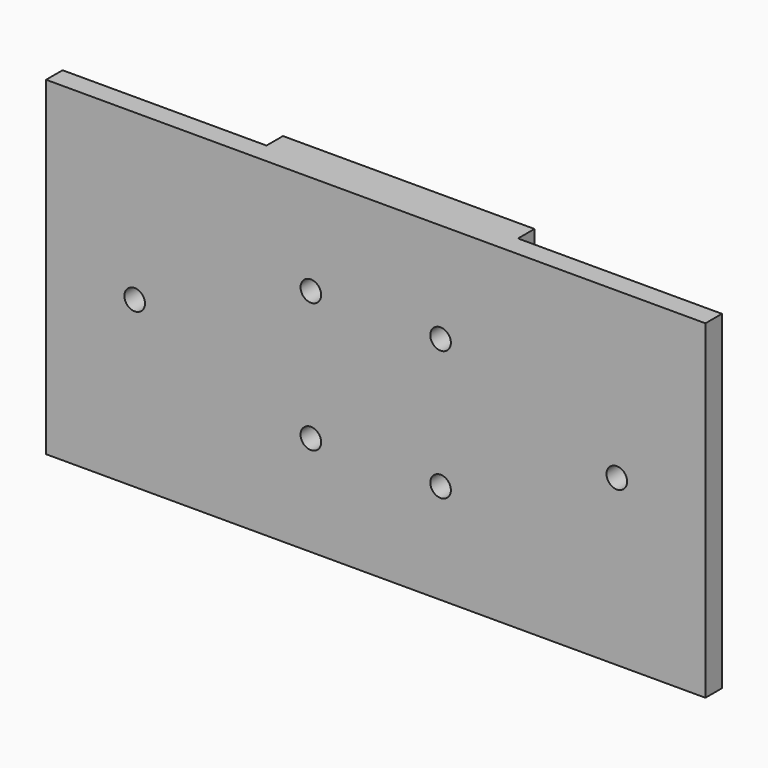
from build123d import *

# Parameters (mm, degrees)
F0_R     = 3.175
F1_DEPTH = 12.7
F2_W     = 62.84501
F2_H     = 6.35
F3_DEPTH = 101.601
F4_DEPTH = 101.601


with BuildPart() as f1:
    # F0 (on Front) → F1 (new body)
    with BuildSketch(Plane.XZ):
        with BuildLine():
            Line((0, 50.8), (-101.6, 50.8))
            Line((-101.6, 50.8), (-101.6, 0))
            Line((-101.6, 0), (-77.47, 0))
            ThreePointArc((-77.47, 0), (-74.295, 3.175), (-71.12, 0))
            Line((-71.12, 0), (0, 0))
            Line((0, 0), (0, 50.8))
        make_face()
        with Locations((-19.99996, 19.99996)):
            Circle(F0_R, mode=Mode.SUBTRACT)
        with BuildLine():
            Line((101.6, 50.8), (0, 50.8))
            Line((0, 50.8), (0, 0))
            Line((0, 0), (71.12, 0))
            ThreePointArc((71.12, 0), (74.295, 3.175), (77.47, 0))
            Line((77.47, 0), (101.6, 0))
            Line((101.6, 0), (101.6, 50.8))
        make_face()
        with Locations((19.97964, 19.99996)):
            Circle(F0_R, mode=Mode.SUBTRACT)
        with BuildLine():
            Line((-77.47, 0), (-101.6, 0))
            Line((-101.6, 0), (-101.6, -50.8))
            Line((-101.6, -50.8), (0, -50.8))
            Line((0, -50.8), (0, 0))
            Line((0, 0), (-71.12, 0))
            ThreePointArc((-71.12, 0), (-74.295, -3.175), (-77.47, 0))
        make_face()
        with Locations((-19.99996, -19.97964)):
            Circle(F0_R, mode=Mode.SUBTRACT)
        with BuildLine():
            Line((71.12, 0), (0, 0))
            Line((0, 0), (0, -50.8))
            Line((0, -50.8), (101.6, -50.8))
            Line((101.6, -50.8), (101.6, 0))
            Line((101.6, 0), (77.47, 0))
            ThreePointArc((77.47, 0), (74.295, -3.175), (71.12, 0))
        make_face()
        with Locations((19.97964, -19.97964)):
            Circle(F0_R, mode=Mode.SUBTRACT)
    extrude(amount=F1_DEPTH)

    # F2 (on face) → F3 (cut, through all)
    with BuildSketch(Plane.XY.offset(50.8)):
        with Locations((-70.177495, -3.175)):
            Rectangle(F2_W, F2_H)
    extrude(amount=-F3_DEPTH, mode=Mode.SUBTRACT)

    # F2 (on face) → F4 (cut, through all)
    with BuildSketch(Plane.XY.offset(50.8)):
        with Locations((70.177495, -3.175)):
            Rectangle(F2_W, F2_H)
    extrude(amount=-F4_DEPTH, mode=Mode.SUBTRACT)


solid = f1.part
